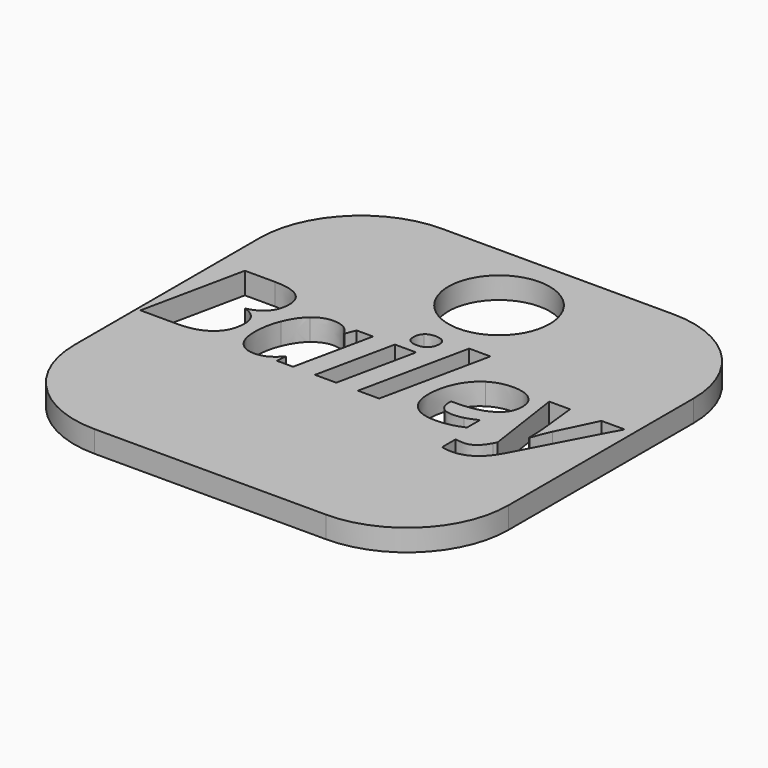
from build123d import *

# Parameters (mm, degrees)
F0_R     = 7
F1_DEPTH = 3


with BuildPart() as f1:
    # F0 (on Top) → F1 (new body)
    with BuildSketch(Plane.XY):
        with BuildLine():
            ThreePointArc((30, 16), (25.8994949366, 25.8994949366), (16, 30))
            Line((16, 30), (-16, 30))
            ThreePointArc((-16, 30), (-25.8994949366, 25.8994949366), (-30, 16))
            Line((-30, 16), (-30, -16))
            ThreePointArc((-30, -16), (-25.8994949366, -25.8994949366), (-16, -30))
            Line((-16, -30), (16, -30))
            ThreePointArc((16, -30), (25.8994949366, -25.8994949366), (30, -16))
            Line((30, -16), (30, 16))
        make_face()
        with BuildLine():
            Line((19.8875351453, -5.2301914546), (18.2880349891, 5.685147502))
            Line((18.2880349891, 5.685147502), (21.1683848797, 5.685147502))
            Line((21.1683848797, 5.685147502), (21.7150890347, 0.6273530628))
            add(Edge.make_bspline(
                [(21.7150890347, 0.6273530628), (21.8494220556, -0.5628999831), (21.8494220556, -2.2342526854)],
                knots=[0, 0, 0, 1, 1, 1], degree=2))
            Line((21.8494220556, -2.2342526854), (21.9087785067, -2.2342526854))
            add(Edge.make_bspline(
                [(21.9087785067, -2.2342526854), (22.1055920025, -1.7344088866), (22.3398937832, -1.0658678057)],
                knots=[0, 0, 0, 1, 1, 1], degree=2))
            add(Edge.make_bspline(
                [(22.3398937832, -1.0658678057), (22.5741955639, -0.3973267248), (22.9740706029, 0.4336635907)],
                knots=[0, 0, 0, 1, 1, 1], degree=2))
            Line((22.9740706029, 0.4336635907), (25.5107778819, 5.685147502))
            Line((25.5107778819, 5.685147502), (28.7035301468, 5.685147502))
            Line((28.7035301468, 5.685147502), (22.0649796938, -6.7922033259))
            add(Edge.make_bspline(
                [(22.0649796938, -6.7922033259), (20.3373945642, -10.0349399707), (17.3508278663, -10.0349399707)],
                knots=[0, 0, 0, 1, 1, 1], degree=2))
            add(Edge.make_bspline(
                [(17.3508278663, -10.0349399707), (16.4698531709, -10.0349399707), (15.9137769447, -9.8474985461)],
                knots=[0, 0, 0, 1, 1, 1], degree=2))
            Line((15.9137769447, -9.8474985461), (15.9137769447, -7.5044807392))
            add(Edge.make_bspline(
                [(15.9137769447, -7.5044807392), (16.5791940019, -7.6325657126), (17.0477975633, -7.6325657126)],
                knots=[0, 0, 0, 1, 1, 1], degree=2))
            add(Edge.make_bspline(
                [(17.0477975633, -7.6325657126), (17.8662917838, -7.6325657126), (18.4864104967, -7.1639621512)],
                knots=[0, 0, 0, 1, 1, 1], degree=2))
            add(Edge.make_bspline(
                [(18.4864104967, -7.1639621512), (19.1065292096, -6.6953585898), (19.6344892221, -5.7081670872)],
                knots=[0, 0, 0, 1, 1, 1], degree=2))
            Line((19.6344892221, -5.7081670872), (19.8875351453, -5.2301914546))
        make_face(mode=Mode.SUBTRACT)
        with BuildLine():
            Line((-26.4667291471, 9.0434730253), (-22.305529522, 9.0434730253))
            add(Edge.make_bspline(
                [(-22.305529522, 9.0434730253), (-20.0718525461, 9.0434730253), (-18.9300218682, 8.2468469709)],
                knots=[0, 0, 0, 1, 1, 1], degree=2))
            add(Edge.make_bspline(
                [(-18.9300218682, 8.2468469709), (-17.7881911903, 7.4502209166), (-17.7881911903, 5.8694649028)],
                knots=[0, 0, 0, 1, 1, 1], degree=2))
            add(Edge.make_bspline(
                [(-17.7881911903, 5.8694649028), (-17.7881911903, 4.4042977676), (-18.5973133396, 3.4530325379)],
                knots=[0, 0, 0, 1, 1, 1], degree=2))
            add(Edge.make_bspline(
                [(-18.5973133396, 3.4530325379), (-19.4064354889, 2.5017673083), (-20.8997188379, 2.1893649341)],
                knots=[0, 0, 0, 1, 1, 1], degree=2))
            Line((-20.8997188379, 2.1893649341), (-20.8997188379, 2.130008483))
            add(Edge.make_bspline(
                [(-20.8997188379, 2.130008483), (-19.9250234302, 1.8769625598), (-19.3439550141, 1.1881153246)],
                knots=[0, 0, 0, 1, 1, 1], degree=2))
            add(Edge.make_bspline(
                [(-19.3439550141, 1.1881153246), (-18.7628865979, 0.4992680893), (-18.7628865979, -0.5722720544)],
                knots=[0, 0, 0, 1, 1, 1], degree=2))
            add(Edge.make_bspline(
                [(-18.7628865979, -0.5722720544), (-18.7628865979, -2.8090730541), (-20.2561699469, -4.0196322543)],
                knots=[0, 0, 0, 1, 1, 1], degree=2))
            add(Edge.make_bspline(
                [(-20.2561699469, -4.0196322543), (-21.7494532958, -5.2301914546), (-24.3861293346, -5.2301914546)],
                knots=[0, 0, 0, 1, 1, 1], degree=2))
            Line((-24.3861293346, -5.2301914546), (-29.4814120587, -5.2301914546))
            Line((-29.4814120587, -5.2301914546), (-26.4667291471, 9.0434730253))
        make_face(mode=Mode.SUBTRACT)
        with BuildLine():
            add(Edge.make_bspline(
                [(-10.521711965, -3.8150086992), (-11.8306779132, -5.4270049503), (-13.6363636364, -5.4270049503)],
                knots=[0, 0, 0, 1, 1, 1], degree=2))
            add(Edge.make_bspline(
                [(-13.6363636364, -5.4270049503), (-15.073414558, -5.4270049503), (-15.898156826, -4.3867050441)],
                knots=[0, 0, 0, 1, 1, 1], degree=2))
            add(Edge.make_bspline(
                [(-15.898156826, -4.3867050441), (-16.722899094, -3.3464051378), (-16.722899094, -1.4719908922)],
                knots=[0, 0, 0, 1, 1, 1], degree=2))
            add(Edge.make_bspline(
                [(-16.722899094, -1.4719908922), (-16.722899094, 0.4617798044), (-16.019993752, 2.214357124)],
                knots=[0, 0, 0, 1, 1, 1], degree=2))
            add(Edge.make_bspline(
                [(-16.019993752, 2.214357124), (-15.3170884099, 3.9669344436), (-14.1736957201, 4.9275717444)],
                knots=[0, 0, 0, 1, 1, 1], degree=2))
            add(Edge.make_bspline(
                [(-14.1736957201, 4.9275717444), (-13.0303030303, 5.8882090453), (-11.6651046548, 5.8882090453)],
                knots=[0, 0, 0, 1, 1, 1], degree=2))
            add(Edge.make_bspline(
                [(-11.6651046548, 5.8882090453), (-10.7185254608, 5.8882090453), (-10.0296782256, 5.478961935)],
                knots=[0, 0, 0, 1, 1, 1], degree=2))
            add(Edge.make_bspline(
                [(-10.0296782256, 5.478961935), (-9.3408309903, 5.0697148247), (-8.9597000937, 4.2887088891)],
                knots=[0, 0, 0, 1, 1, 1], degree=2))
            Line((-8.9597000937, 4.2887088891), (-8.8815995002, 4.2887088891))
            Line((-8.8815995002, 4.2887088891), (-8.325523274, 5.685147502))
            Line((-8.325523274, 5.685147502), (-6.0606060606, 5.685147502))
            Line((-6.0606060606, 5.685147502), (-8.3848797251, -5.2301914546))
            Line((-8.3848797251, -5.2301914546), (-10.6216807248, -5.2301914546))
            Line((-10.6216807248, -5.2301914546), (-10.4842236801, -3.8150086992))
            Line((-10.4842236801, -3.8150086992), (-10.521711965, -3.8150086992))
        make_face(mode=Mode.SUBTRACT)
        Polygon((-0.1062168072, 5.685147502), (-2.4211184005, -5.2301914546), (-5.3577007185, -5.2301914546), (-3.045923149, 5.685147502), align=None, mode=Mode.SUBTRACT)
        with BuildLine():
            add(Edge.make_bspline(
                [(-1.1027803811, 7.0409738063), (-2.5773195876, 7.0409738063), (-2.5773195876, 8.2437229472)],
                knots=[0, 0, 0, 1, 1, 1], degree=2))
            add(Edge.make_bspline(
                [(-2.5773195876, 8.2437229472), (-2.5773195876, 9.0903333814), (-2.1134020619, 9.5261346935)],
                knots=[0, 0, 0, 1, 1, 1], degree=2))
            add(Edge.make_bspline(
                [(-2.1134020619, 9.5261346935), (-1.6494845361, 9.9619360056), (-0.7997500781, 9.9619360056)],
                knots=[0, 0, 0, 1, 1, 1], degree=2))
            add(Edge.make_bspline(
                [(-0.7997500781, 9.9619360056), (-0.0874726648, 9.9619360056), (0.2842861606, 9.6589057026)],
                knots=[0, 0, 0, 1, 1, 1], degree=2))
            add(Edge.make_bspline(
                [(0.2842861606, 9.6589057026), (0.6560449859, 9.3558753995), (0.6560449859, 8.7904271021)],
                knots=[0, 0, 0, 1, 1, 1], degree=2))
            add(Edge.make_bspline(
                [(0.6560449859, 8.7904271021), (0.6560449859, 8.0094211665), (0.2264917213, 7.5251974864)],
                knots=[0, 0, 0, 1, 1, 1], degree=2))
            add(Edge.make_bspline(
                [(0.2264917213, 7.5251974864), (-0.2030615433, 7.0409738063), (-1.1027803811, 7.0409738063)],
                knots=[0, 0, 0, 1, 1, 1], degree=2))
        make_face(mode=Mode.SUBTRACT)
        Polygon((6.7385192127, 9.9619360056), (3.5145267104, -5.2301914546), (0.5779443924, -5.2301914546), (3.798812871, 9.9619360056), align=None, mode=Mode.SUBTRACT)
        with BuildLine():
            add(Edge.make_bspline(
                [(15.1515151515, -4.5866425636), (13.4739144017, -5.4270049503), (11.3464542331, -5.4270049503)],
                knots=[0, 0, 0, 1, 1, 1], degree=2))
            add(Edge.make_bspline(
                [(11.3464542331, -5.4270049503), (9.2939706342, -5.4270049503), (8.1615120275, -4.3226625573)],
                knots=[0, 0, 0, 1, 1, 1], degree=2))
            add(Edge.make_bspline(
                [(8.1615120275, -4.3226625573), (7.0290534208, -3.2183201643), (7.0290534208, -1.2064488741)],
                knots=[0, 0, 0, 1, 1, 1], degree=2))
            add(Edge.make_bspline(
                [(7.0290534208, -1.2064488741), (7.0290534208, 0.8116704636), (7.8350515464, 2.4767751184)],
                knots=[0, 0, 0, 1, 1, 1], degree=2))
            add(Edge.make_bspline(
                [(7.8350515464, 2.4767751184), (8.641049672, 4.1418797732), (10.0171821306, 5.0150444092)],
                knots=[0, 0, 0, 1, 1, 1], degree=2))
            add(Edge.make_bspline(
                [(10.0171821306, 5.0150444092), (11.3933145892, 5.8882090453), (13.1302717901, 5.8882090453)],
                knots=[0, 0, 0, 1, 1, 1], degree=2))
            add(Edge.make_bspline(
                [(13.1302717901, 5.8882090453), (14.8609809435, 5.8882090453), (15.8263042799, 5.0931450028)],
                knots=[0, 0, 0, 1, 1, 1], degree=2))
            add(Edge.make_bspline(
                [(15.8263042799, 5.0931450028), (16.7916276164, 4.2980809603), (16.7916276164, 2.9110144186)],
                knots=[0, 0, 0, 1, 1, 1], degree=2))
            add(Edge.make_bspline(
                [(16.7916276164, 2.9110144186), (16.7916276164, 1.0865845529), (15.1624492346, 0.0962690265)],
                knots=[0, 0, 0, 1, 1, 1], degree=2))
            add(Edge.make_bspline(
                [(15.1624492346, 0.0962690265), (13.5332708529, -0.8940464999), (10.5060918463, -0.8940464999)],
                knots=[0, 0, 0, 1, 1, 1], degree=2))
            Line((10.5060918463, -0.8940464999), (10.0062480475, -0.8940464999))
            Line((10.0062480475, -0.8940464999), (9.987503905, -1.1002320669))
            Line((9.987503905, -1.1002320669), (9.987503905, -1.2970455627))
            add(Edge.make_bspline(
                [(9.987503905, -1.2970455627), (9.987503905, -2.1842683055), (10.4904717276, -2.6966081993)],
                knots=[0, 0, 0, 1, 1, 1], degree=2))
            add(Edge.make_bspline(
                [(10.4904717276, -2.6966081993), (10.9934395501, -3.2089480931), (11.9306466729, -3.2089480931)],
                knots=[0, 0, 0, 1, 1, 1], degree=2))
            add(Edge.make_bspline(
                [(11.9306466729, -3.2089480931), (12.7803811309, -3.2089480931), (13.4739144017, -3.0230686804)],
                knots=[0, 0, 0, 1, 1, 1], degree=2))
            add(Edge.make_bspline(
                [(13.4739144017, -3.0230686804), (14.1674476726, -2.8371892677), (15.1515151515, -2.3685857064)],
                knots=[0, 0, 0, 1, 1, 1], degree=2))
            Line((15.1515151515, -2.3685857064), (15.1515151515, -4.5866425636))
        make_face(mode=Mode.SUBTRACT)
        with Locations((0, 19.8741126806)):
            Circle(F0_R, mode=Mode.SUBTRACT)
    extrude(amount=F1_DEPTH)


solid = f1.part
